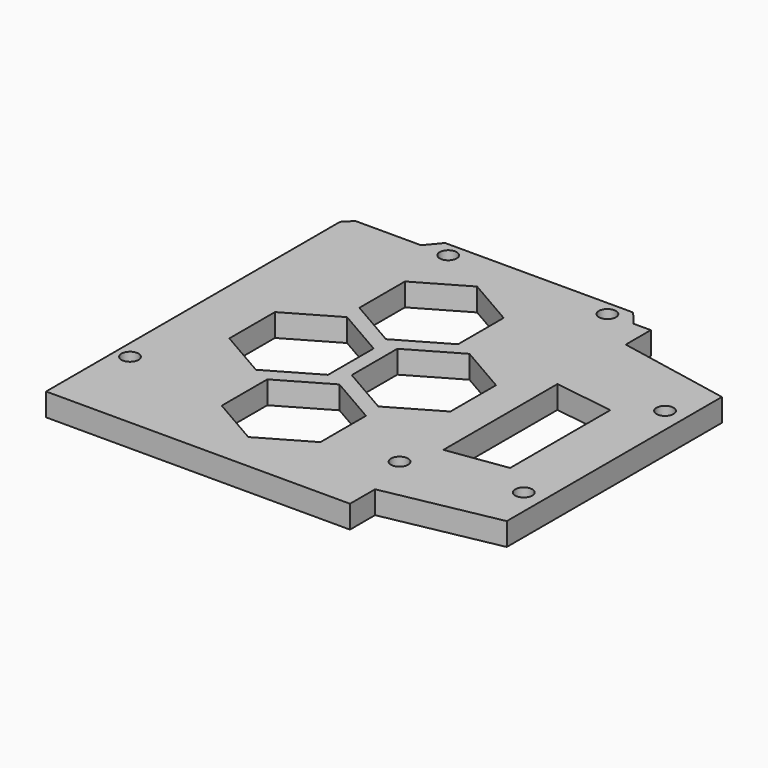
from build123d import *

# Parameters (mm, degrees)
SKETCH_R     = 1.5
PAD_DEPTH    = 4
CHAMFER_SIZE = 1.5


with BuildPart() as part:
    # Sketch → Pad (new body)
    with BuildSketch(Plane.XY):
        Polygon((-11.5, 35.58), (21.5, 35.58), (23.67, 33), (26.67, 33), (26.67, 27.5), (46.67, 23.6), (46.67, -23.6), (26.67, -27.5), (26.67, -33), (-26.67, -33), (-26.67, 33), (-13.67, 33), align=None)
        with Locations((43.17, 15.5)):
            Circle(SKETCH_R, mode=Mode.SUBTRACT)
        with Locations((43.17, -15.5)):
            Circle(SKETCH_R, mode=Mode.SUBTRACT)
        with Locations((19.05, 33)):
            Circle(SKETCH_R, mode=Mode.SUBTRACT)
        with Locations((-8.89, 33)):
            Circle(SKETCH_R, mode=Mode.SUBTRACT)
        with Locations((-24.13, -17.76)):
            Circle(SKETCH_R, mode=Mode.SUBTRACT)
        with Locations((24.17, -19)):
            Circle(SKETCH_R, mode=Mode.SUBTRACT)
        Polygon((8.660254, 13.222707), (8.660254, 23.222707), (0, 28.222707), (-8.660254, 23.222707), (-8.660254, 13.222707), (0, 8.222707), align=None, mode=Mode.SUBTRACT)
        Polygon((20.320508, -3.026554), (20.320508, 6.973446), (11.660254, 11.973446), (3, 6.973446), (3, -3.026554), (11.660254, -8.026554), align=None, mode=Mode.SUBTRACT)
        Polygon((0.418108, -5), (0.418108, 5), (-8.242146, 10), (-16.9024, 5), (-16.9024, -5), (-8.242146, -10), align=None, mode=Mode.SUBTRACT)
        Polygon((12.078362, -21.249261), (12.078362, -11.249261), (3.418108, -6.249261), (-5.242146, -11.249261), (-5.242146, -21.249261), (3.418108, -26.249261), align=None, mode=Mode.SUBTRACT)
        Polygon((26.67, 12.5), (26.67, -12.5), (37.17, -11), (37.17, 11), align=None, mode=Mode.SUBTRACT)
    extrude(amount=PAD_DEPTH)

    # Chamfer
    chamfer_edges = [part.edges().sort_by_distance(p)[0] for p in [
        (-26.67, 33, 2),
    ]]
    chamfer(chamfer_edges, length=CHAMFER_SIZE)


solid = part.part
